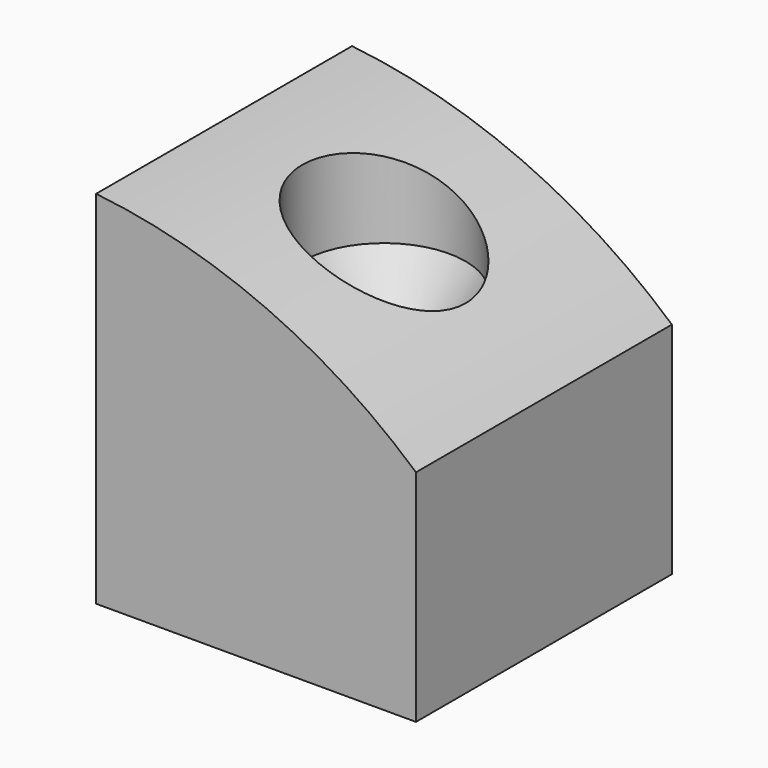
from build123d import *

# Parameters (mm, degrees)
F0_W          = 10
F0_H          = 10
F1_DEPTH      = 25
F1_DEPTH_BACK = 5
F4_W          = 10
F4_H          = 5.4510665399
F5_DEPTH      = 25
F5_DEPTH_BACK = 25


with BuildPart() as f1:
    # F0 (on Top) → F1 (new body, two sides)
    with BuildSketch(Plane.XY) as f1_sk:
        Rectangle(F0_W, F0_H)
    extrude(amount=F1_DEPTH)
    extrude(f1_sk.sketch, amount=-F1_DEPTH_BACK)

    # F2 (on Front) → F3 (revolve, cut)
    with BuildSketch(Plane.XZ):
        Polygon((2.55, 8.6417774172), (2.55, 25), (0, 25), (0, 5), align=None)
    revolve(axis=Axis((0, 0, 15), (0, 0, -1)), mode=Mode.SUBTRACT)

    # F4 (on Front) → F5 (cut, two sides)
    with BuildSketch(Plane.XZ) as f5_sk:
        with BuildLine():
            ThreePointArc((-5, 11.7330665399), (0.3429792874, 10.3044447979), (5, 7.3210665399))
            Line((5, 7.3210665399), (5, 25))
            Line((5, 25), (-5, 25))
            Line((-5, 25), (-5, 11.7330665399))
        make_face()
        with Locations((0, -2.2744667301)):
            Rectangle(F4_W, F4_H)
    extrude(amount=-F5_DEPTH, mode=Mode.SUBTRACT)
    extrude(f5_sk.sketch, amount=F5_DEPTH_BACK, mode=Mode.SUBTRACT)


solid = f1.part
